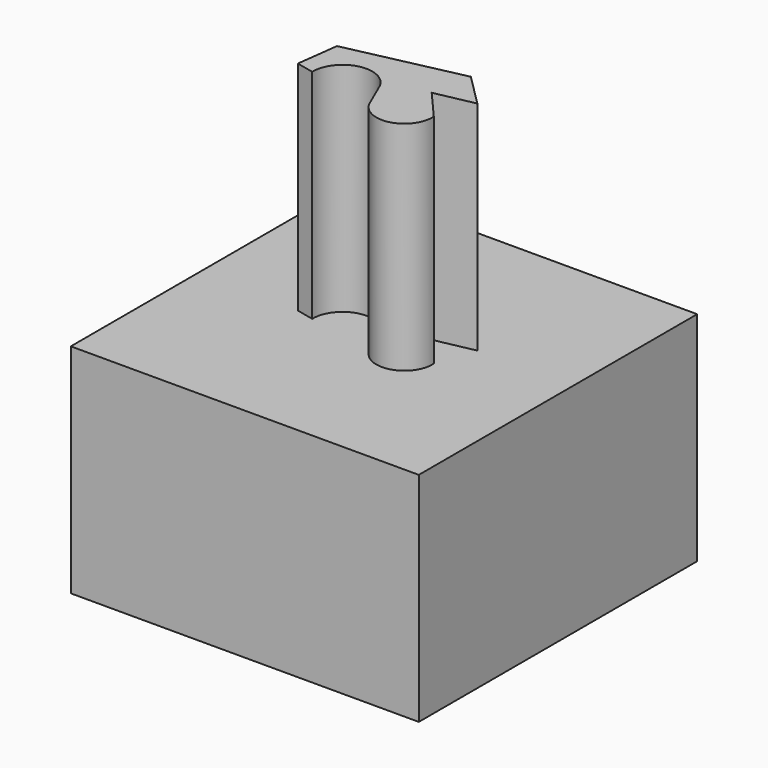
from build123d import *

# Parameters (mm, degrees)
BOX001_W      = 10
BOX001_H      = 10
BOX001_DEPTH  = 8
EXTRUDE_DEPTH = 10
BOX_W         = 16
BOX_H         = 16
BOX_DEPTH     = 10


with BuildPart() as cube001:
    # Box001 → Box001 (new body)
    with BuildSketch(Plane(origin=(-5, -5, 0), x_dir=(1, 0, 0), z_dir=(0, 0, 1))):
        with Locations((5, 5)):
            Rectangle(BOX001_W, BOX001_H)
    extrude(amount=BOX001_DEPTH)


with BuildPart() as extrude_body:
    # Sketch → Extrude (new body)
    with BuildSketch(Plane.XY):
        with BuildLine():
            Line((1.12075, 2.839983), (-4.120749, 1.699111))
            Line((-4.371559, -0.236927), (-4.120749, 1.699111))
            Line((-4.371559, -0.236927), (-3.566567, -0.41805))
            ThreePointArc((-0.915655, 0.079537), (-2.453717, 0.963407), (-3.566567, -0.41805))
            Line((-0.411383, -1.079694), (-0.915655, 0.079537))
            ThreePointArc((-0.411383, -1.079694), (1.076577, -1.73701), (2.017311, -0.409942))
            Line((0.800522, 0.990688), (2.017311, -0.409942))
            Line((2.605595, 1.358264), (0.800522, 0.990688))
            Line((1.12075, 2.839983), (2.605595, 1.358264))
        make_face()
    extrude(amount=EXTRUDE_DEPTH)


with BuildPart() as extrude_body_1:
    # Extrude placement: moved
    add(extrude_body.part.moved(Location((1, -0.5, 10))))


with BuildPart() as cut:
    # Box → Box (new body)
    with BuildSketch(Plane(origin=(-8, -8, 0), x_dir=(1, 0, 0), z_dir=(0, 0, 1))):
        with Locations((8, 8)):
            Rectangle(BOX_W, BOX_H)
    extrude(amount=BOX_DEPTH)

    # Fusion: union Extrude body
    add(extrude_body_1.part)

    # Cut: cut Cube001
    add(cube001.part, mode=Mode.SUBTRACT)


solid = cut.part
